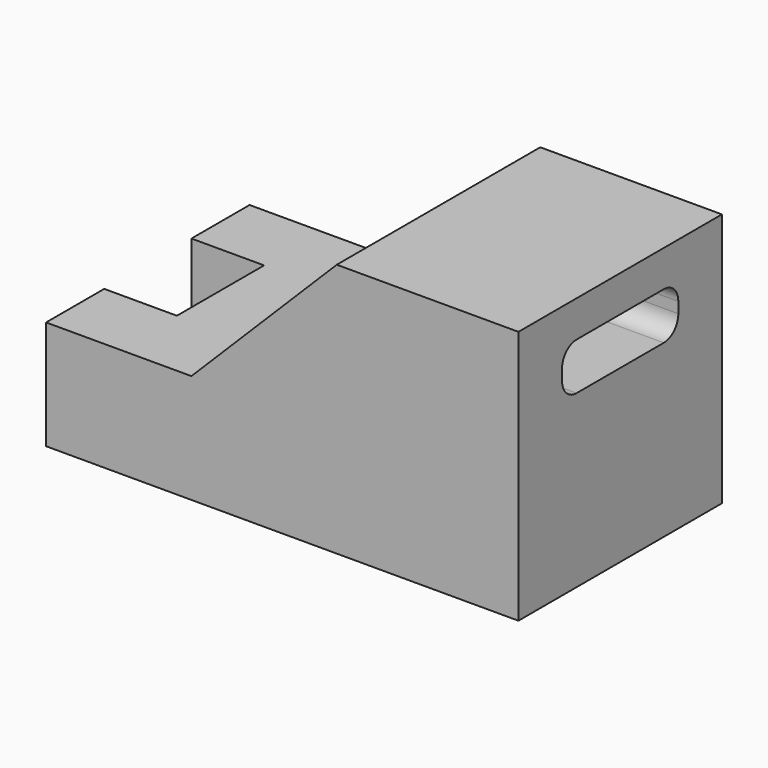
from build123d import *

# Parameters (mm, degrees)
F1_DEPTH = 700
F3_DEPTH = 1300.001
F4_W     = 200
F4_H     = 300
F5_DEPTH = 300.001


with BuildPart() as f1:
    # F0 (on Front) → F1 (new body)
    with BuildSketch(Plane.XZ):
        Polygon((650, -350), (650, 350), (150, 350), (-250, -50), (-650, -50), (-650, -350), align=None)
    extrude(amount=F1_DEPTH)

    # F2 (on face) → F3 (cut, through all)
    with BuildSketch(Plane.YZ.offset(650)):
        with BuildLine():
            ThreePointArc((-550, 170.143622), (-535.355339, 134.788283), (-500, 120.143622))
            Line((-500, 120.143622), (-200, 120.143622))
            ThreePointArc((-200, 120.143622), (-164.644661, 134.788283), (-150, 170.143622))
            Line((-150, 170.143622), (-150, 200))
            ThreePointArc((-150, 200), (-164.644661, 235.355339), (-200, 250))
            Line((-200, 250), (-500, 250))
            ThreePointArc((-500, 250), (-535.355339, 235.355339), (-550, 200))
            Line((-550, 200), (-550, 170.143622))
        make_face()
    extrude(amount=-F3_DEPTH, mode=Mode.SUBTRACT)

    # F4 (on face) → F5 (cut, through all)
    with BuildSketch(Plane.XY.offset(-50)):
        with Locations((-550, -350)):
            Rectangle(F4_W, F4_H)
    extrude(amount=-F5_DEPTH, mode=Mode.SUBTRACT)


solid = f1.part
